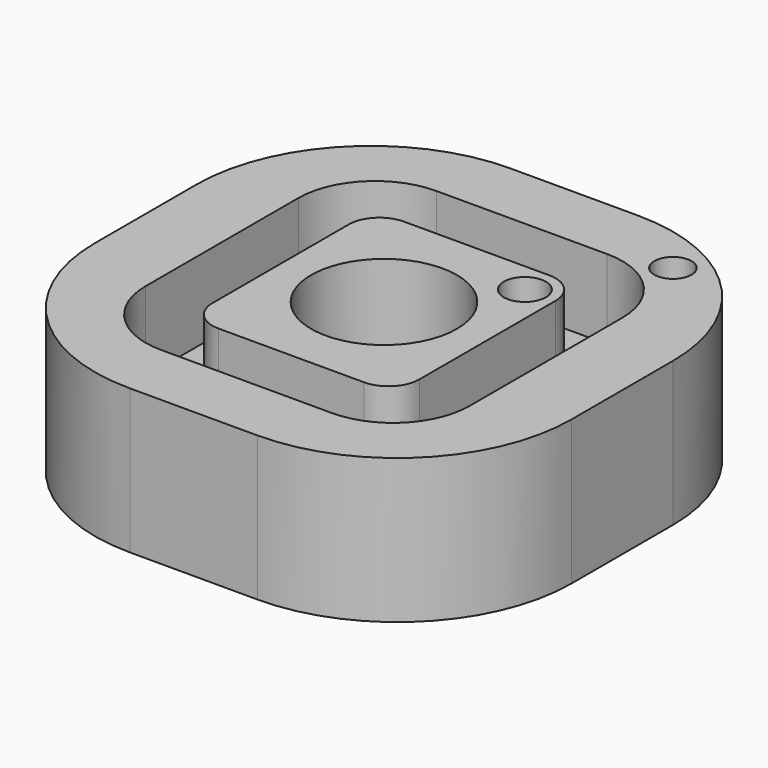
from build123d import *

# Parameters (mm, degrees)
F0_W      = 152.605712
F0_H      = 152.340234
F1_DEPTH  = 46.228
F2_R      = 55.88
F3_R      = 55.88
F4_R      = 55.88
F5_R      = 55.88
F6_W      = 103.709646
F6_H      = 110.155954
F6_W_2    = 66.169404
F6_H_2    = 74.132488
F7_DEPTH  = 25.4
F8_R      = 24.52841
F9_R      = 9.811364
F10_R     = 23.330853
F11_DEPTH = 25.4
F12_R     = 6.759077
F13_DEPTH = 25.4
F14_R     = 5.952934
F15_DEPTH = 62.484


with BuildPart() as f1:
    # F0 (on Top) → F1 (new body)
    with BuildSketch(Plane.XY):
        Rectangle(F0_W, F0_H)
    extrude(amount=F1_DEPTH)

    # F2
    f2_edges = [f1.edges().sort_by_distance(p)[0] for p in [
        (76.302856, 76.170117, 23.114),
    ]]
    fillet(f2_edges, radius=F2_R)

    # F3
    f3_edges = [f1.edges().sort_by_distance(p)[0] for p in [
        (-76.302856, 76.170117, 23.114),
    ]]
    fillet(f3_edges, radius=F3_R)

    # F4
    f4_edges = [f1.edges().sort_by_distance(p)[0] for p in [
        (-76.302856, -76.170117, 23.114),
    ]]
    fillet(f4_edges, radius=F4_R)

    # F5
    f5_edges = [f1.edges().sort_by_distance(p)[0] for p in [
        (76.302856, -76.170117, 23.114),
    ]]
    fillet(f5_edges, radius=F5_R)

    # F6 (on face) → F7 (cut)
    with BuildSketch(Plane.XY.offset(46.228)):
        Rectangle(F6_W, F6_H)
        Rectangle(F6_W_2, F6_H_2, mode=Mode.SUBTRACT)
    extrude(amount=-F7_DEPTH, mode=Mode.SUBTRACT)

    # F8
    f8_edges = [f1.edges().sort_by_distance(p)[0] for p in [
        (-51.854823, -55.077977, 33.528),
        (51.854823, -55.077977, 33.528),
        (51.854823, 55.077977, 33.528),
        (-51.854823, 55.077977, 33.528),
    ]]
    fillet(f8_edges, radius=F8_R)

    # F9
    f9_edges = [f1.edges().sort_by_distance(p)[0] for p in [
        (-33.084702, -37.066244, 33.528),
        (-33.084702, 37.066244, 33.528),
        (33.084702, 37.066244, 33.528),
        (33.084702, -37.066244, 33.528),
    ]]
    fillet(f9_edges, radius=F9_R)

    # F10 (on face) → F11 (cut)
    with BuildSketch(Plane.XY.offset(46.228)):
        Circle(F10_R)
    extrude(amount=-F11_DEPTH, mode=Mode.SUBTRACT)

    # F12 (on face) → F13 (cut)
    with BuildSketch(Plane.XY.offset(46.228)):
        with Locations((23.273338, 27.25488)):
            Circle(F12_R)
    extrude(amount=-F13_DEPTH, mode=Mode.SUBTRACT)

    # F14 (on face) → F15 (cut)
    with BuildSketch(Plane.XY.offset(46.228)):
        with Locations((44.878781, 59.487075)):
            Circle(F14_R)
    extrude(amount=-F15_DEPTH, mode=Mode.SUBTRACT)


solid = f1.part
